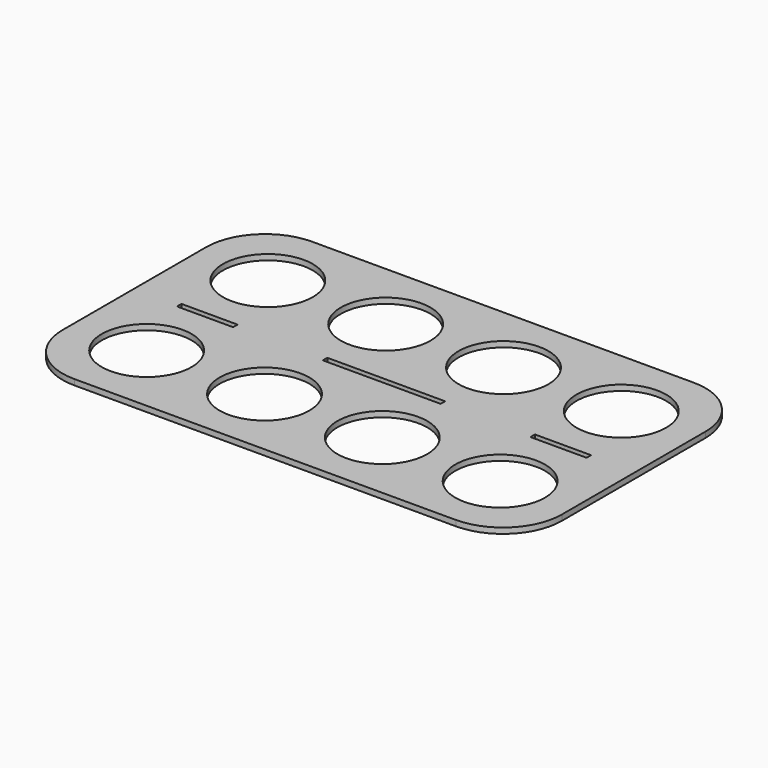
from build123d import *

# Parameters (mm, degrees)
F0_R     = 40
F0_W     = 50
F0_H     = 5
F0_W_2   = 105
F1_DEPTH = 5


with BuildPart() as f1:
    # F0 (on Top) → F1 (new body)
    with BuildSketch(Plane.XY):
        with BuildLine():
            ThreePointArc((146.020335, 147.5), (130.643441, 184.623106), (93.520335, 200))
            Line((93.520335, 200), (-246.479665, 200))
            ThreePointArc((-246.479665, 200), (-283.602771, 184.623106), (-298.979665, 147.5))
            Line((-298.979665, 147.5), (-298.979665, -12.5))
            ThreePointArc((-298.979665, -12.5), (-283.602771, -49.623106), (-246.479665, -65))
            Line((-246.479665, -65), (93.520335, -65))
            ThreePointArc((93.520335, -65), (130.643441, -49.623106), (146.020335, -12.5))
            Line((146.020335, -12.5), (146.020335, 65))
            Line((146.020335, 65), (146.020335, 70))
            Line((146.020335, 70), (146.020335, 147.5))
        make_face()
        with Locations((-233.979665, 0)):
            Circle(F0_R, mode=Mode.SUBTRACT)
        with Locations((-128.979665, 0)):
            Circle(F0_R, mode=Mode.SUBTRACT)
        with Locations((-23.979665, 0)):
            Circle(F0_R, mode=Mode.SUBTRACT)
        with Locations((81.020335, 0)):
            Circle(F0_R, mode=Mode.SUBTRACT)
        with Locations((-233.979665, 67.5)):
            Rectangle(F0_W, F0_H, mode=Mode.SUBTRACT)
        with Locations((-233.979665, 135)):
            Circle(F0_R, mode=Mode.SUBTRACT)
        with Locations((-128.979665, 135)):
            Circle(F0_R, mode=Mode.SUBTRACT)
        with Locations((-76.479665, 67.5)):
            Rectangle(F0_W_2, F0_H, mode=Mode.SUBTRACT)
        with Locations((81.020335, 67.5)):
            Rectangle(F0_W, F0_H, mode=Mode.SUBTRACT)
        with Locations((-23.979665, 135)):
            Circle(F0_R, mode=Mode.SUBTRACT)
        with Locations((81.020335, 135)):
            Circle(F0_R, mode=Mode.SUBTRACT)
    extrude(amount=F1_DEPTH)


solid = f1.part
